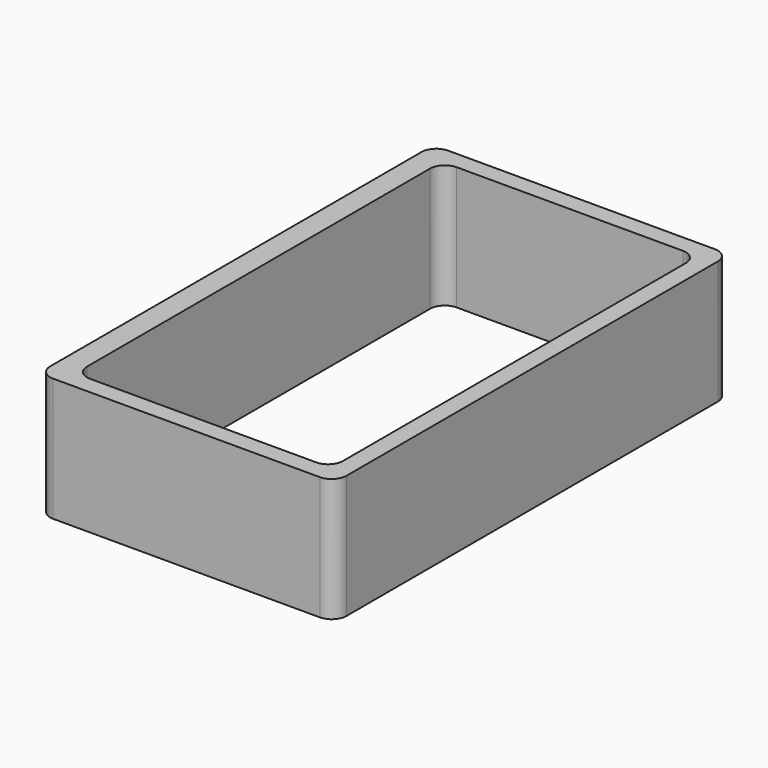
from build123d import *

# Parameters (mm, degrees)
F1_DEPTH = 25


with BuildPart() as f1:
    # F0 (on Top) → F1 (new body)
    with BuildSketch(Plane.XY):
        with BuildLine():
            Line((39.599326, -61.959296), (39.599326, 32.040704))
            ThreePointArc((39.599326, 32.040704), (38.720646, 34.162024), (36.599326, 35.040704))
            Line((36.599326, 35.040704), (-17.400674, 35.040704))
            ThreePointArc((-17.400674, 35.040704), (-19.521995, 34.162024), (-20.400674, 32.040704))
            Line((-20.400674, 32.040704), (-20.400674, -61.959296))
            ThreePointArc((-20.400674, -61.959296), (-19.521995, -64.080617), (-17.400674, -64.959296))
            Line((-17.400674, -64.959296), (9.599326, -64.959296))
            Line((9.599326, -64.959296), (36.599326, -64.959296))
            ThreePointArc((36.599326, -64.959296), (38.720646, -64.080617), (39.599326, -61.959296))
        make_face()
        with BuildLine():
            Line((32.999326, -61.359296), (10.599326, -61.359296))
            Line((10.599326, -61.359296), (-12.800674, -61.359296))
            ThreePointArc((-12.800674, -61.359296), (-14.921995, -60.480617), (-15.800674, -58.359296))
            Line((-15.800674, -58.359296), (-15.800674, 28.440704))
            ThreePointArc((-15.800674, 28.440704), (-14.921995, 30.562024), (-12.800674, 31.440704))
            Line((-12.800674, 31.440704), (9.599326, 31.440704))
            Line((9.599326, 31.440704), (10.599326, 31.440704))
            Line((10.599326, 31.440704), (32.999326, 31.440704))
            ThreePointArc((32.999326, 31.440704), (35.120646, 30.562024), (35.999326, 28.440704))
            Line((35.999326, 28.440704), (35.999326, -58.359296))
            ThreePointArc((35.999326, -58.359296), (35.120646, -60.480617), (32.999326, -61.359296))
        make_face(mode=Mode.SUBTRACT)
    extrude(amount=F1_DEPTH)


solid = f1.part
